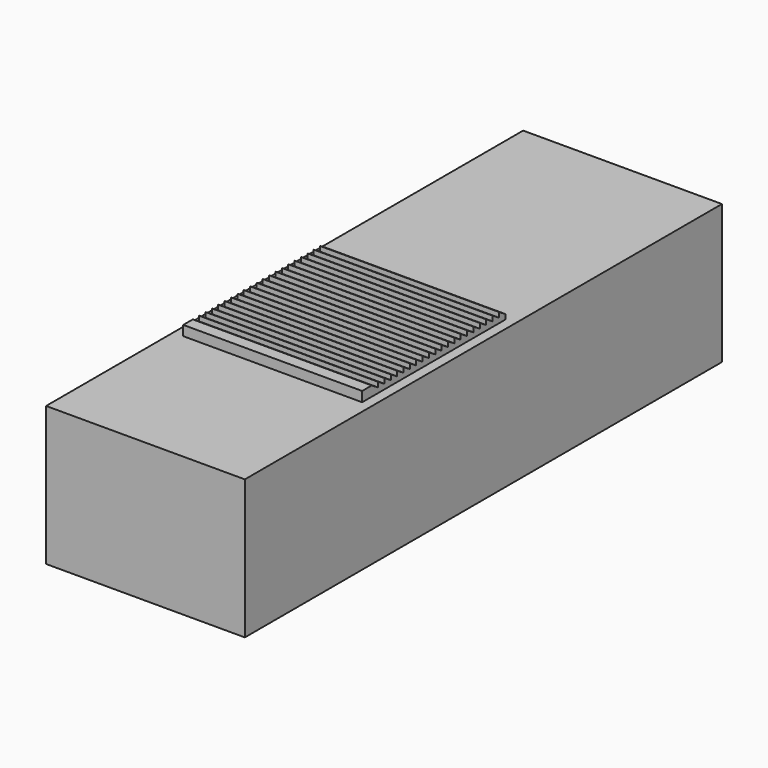
from build123d import *

# Parameters (mm, degrees)
F0_W     = 300
F0_H     = 900
F1_DEPTH = 210
F2_W     = 270
F2_H     = 270
F3_DEPTH = 15
F5_DEPTH = 312.33499
F6_W     = 230
F6_H     = 200
F6_R     = 87.5
F6_R_2   = 14
F7_DEPTH = 10
F6_R_3   = 4
F8_DEPTH = 10


with BuildPart() as f1:
    # F0 (on Top) → F1 (new body)
    with BuildSketch(Plane.XY):
        Rectangle(F0_W, F0_H)
    extrude(amount=F1_DEPTH)

    # F6 (on face) → F8 (cut)
    with BuildSketch(Plane(origin=(0, 0, 0), x_dir=(1, 0, 0), z_dir=(0, 0, -1))):
        with Locations((135, -436)):
            Circle(F6_R_3)
        with Locations((135, -209)):
            Circle(F6_R_3)
        with Locations((135, 91)):
            Circle(F6_R_3)
        with Locations((135, 291)):
            Circle(F6_R_3)
        with Locations((-135, 291)):
            Circle(F6_R_3)
        with Locations((-135, 91)):
            Circle(F6_R_3)
        with Locations((-135, -209)):
            Circle(F6_R_3)
        with Locations((-135, -436)):
            Circle(F6_R_3)
    extrude(amount=-F8_DEPTH, mode=Mode.SUBTRACT)


with BuildPart() as f3:
    # F2 (on face) → F3 (new body)
    with BuildSketch(Plane.XY.offset(210)):
        with Locations((0, -75)):
            Rectangle(F2_W, F2_H)
    extrude(amount=F3_DEPTH)

    # F4 (on face) → F5 (cut)
    with BuildSketch(Plane(origin=(-135, 0, 0), x_dir=(0, -1, 0), z_dir=(-1, 0, 0))):
        Polygon((-68.766557, 217.5), (-60, 217.5), (-48, 225), (-48, 217.5), (-36, 225), (-36, 217.5), (-24, 225), (-24, 217.5), (-12, 225), (-12, 217.5), (0, 225), (0, 217.5), (12, 225), (12, 217.5), (24, 225), (24, 217.5), (36, 225), (36, 217.5), (48, 225), (48, 217.5), (60, 225), (60, 217.5), (72, 225), (72, 217.5), (84, 225), (84, 217.5), (96, 225), (96, 217.5), (108, 225), (108, 217.5), (120, 225), (120, 217.5), (132, 225), (132, 217.5), (144, 225), (144, 217.5), (156, 225), (156, 217.5), (168, 225), (168, 217.5), (180, 225), (180, 217.5), (192, 225), (192, 249.122769), (-68.766557, 249.122769), align=None)
    extrude(amount=-F5_DEPTH, mode=Mode.SUBTRACT)


with BuildPart() as f7:
    # F6 (on face) → F7 (new body)
    with BuildSketch(Plane(origin=(0, 0, 0), x_dir=(1, 0, 0), z_dir=(0, 0, -1))):
        with Locations((0, -338)):
            Rectangle(F6_W, F6_H)
        with Locations((0, -128)):
            Circle(F6_R)
        with Locations((105, -201)):
            Circle(F6_R_2)
        with Locations((105, -166)):
            Circle(F6_R_2)
    extrude(amount=F7_DEPTH)


solid = Compound([f1.part, f3.part, f7.part])
